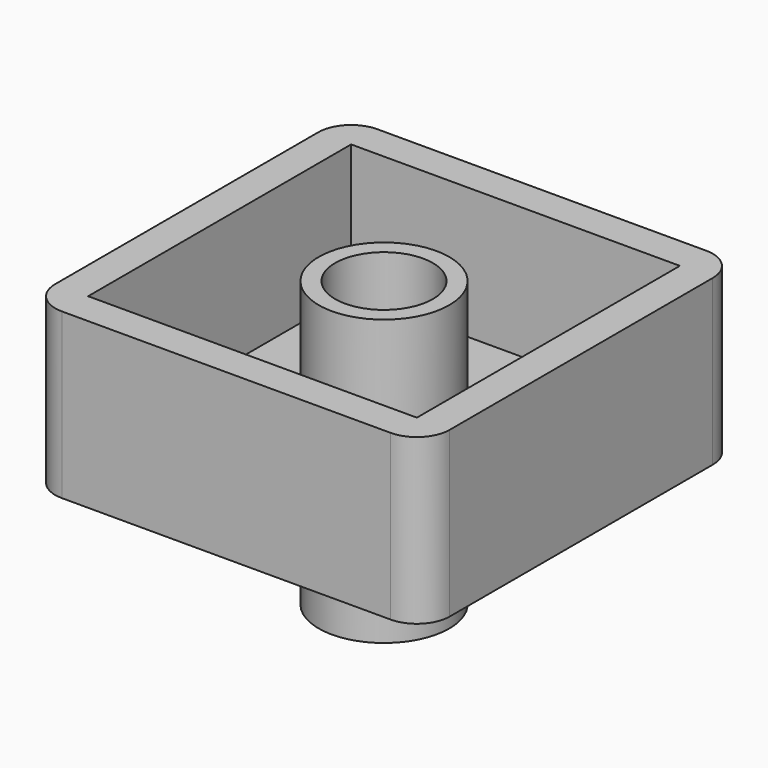
from build123d import *

# Parameters (mm, degrees)
F0_W     = 60
F0_H     = 60
F1_DEPTH = 25
F2_W     = 50
F2_H     = 50
F3_DEPTH = 20
F4_R     = 9.93
F4_R_2   = 7.43
F5_DEPTH = 43.3
F6_R     = 7.43
F7_DEPTH = 56.5
F8_R     = 5


with BuildPart() as f1:
    # F0 (on Top) → F1 (new body)
    with BuildSketch(Plane.XY):
        Rectangle(F0_W, F0_H)
    extrude(amount=F1_DEPTH)

    # F2 (on face) → F3 (cut)
    with BuildSketch(Plane.XY.offset(25)):
        Rectangle(F2_W, F2_H)
    extrude(amount=-F3_DEPTH, mode=Mode.SUBTRACT)

    # F4 (on face) → F5 (join)
    with BuildSketch(Plane.XY.offset(25)):
        Circle(F4_R)
        Circle(F4_R_2, mode=Mode.SUBTRACT)
    extrude(amount=-F5_DEPTH)

    # F6 (on face) → F7 (cut)
    with BuildSketch(Plane.XY.offset(25)):
        Circle(F6_R)
    extrude(amount=-F7_DEPTH, mode=Mode.SUBTRACT)

    # F8
    f8_edges = [f1.edges().sort_by_distance(p)[0] for p in [
        (-30, -30, 12.5),
        (30, -30, 12.5),
        (30, 30, 12.5),
        (-30, 30, 12.5),
    ]]
    fillet(f8_edges, radius=F8_R)


solid = f1.part
